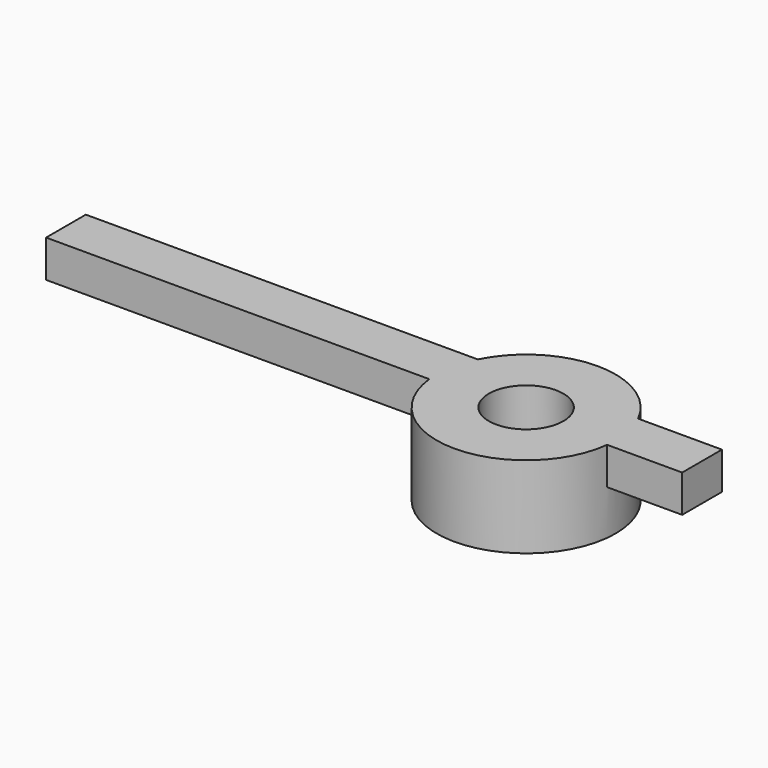
from build123d import *

# Parameters (mm, degrees)
CYLINDER003_R     = 0.75
CYLINDER003_DEPTH = 10
CYLINDER_R        = 1.8
CYLINDER_DEPTH    = 1.65
BOX006_W          = 12.8
BOX006_H          = 1
BOX006_DEPTH      = 0.75


with BuildPart() as cylinder003:
    # Cylinder003 → Cylinder003 (new body)
    with BuildSketch(Plane(origin=(11.5, -6.7, 0), x_dir=(1, 0, 0), z_dir=(0, 0, 1))):
        Circle(CYLINDER003_R)
    extrude(amount=CYLINDER003_DEPTH)


with BuildPart() as cylinder:
    # Cylinder → Cylinder (new body)
    with BuildSketch(Plane(origin=(11.5, -6.7, 0), x_dir=(1, 0, 0), z_dir=(0, 0, 1))):
        Circle(CYLINDER_R)
    extrude(amount=CYLINDER_DEPTH)


with BuildPart() as cut:
    # Box006 → Box006 (new body)
    with BuildSketch(Plane(origin=(2, -6.9, 0.9), x_dir=(1, 0, 0), z_dir=(0, 0, 1))):
        with Locations((6.4, 0.5)):
            Rectangle(BOX006_W, BOX006_H)
    extrude(amount=BOX006_DEPTH)

    # Fusion: union Cylinder
    add(cylinder.part)

    # Cut: cut Cylinder003
    add(cylinder003.part, mode=Mode.SUBTRACT)


solid = cut.part
